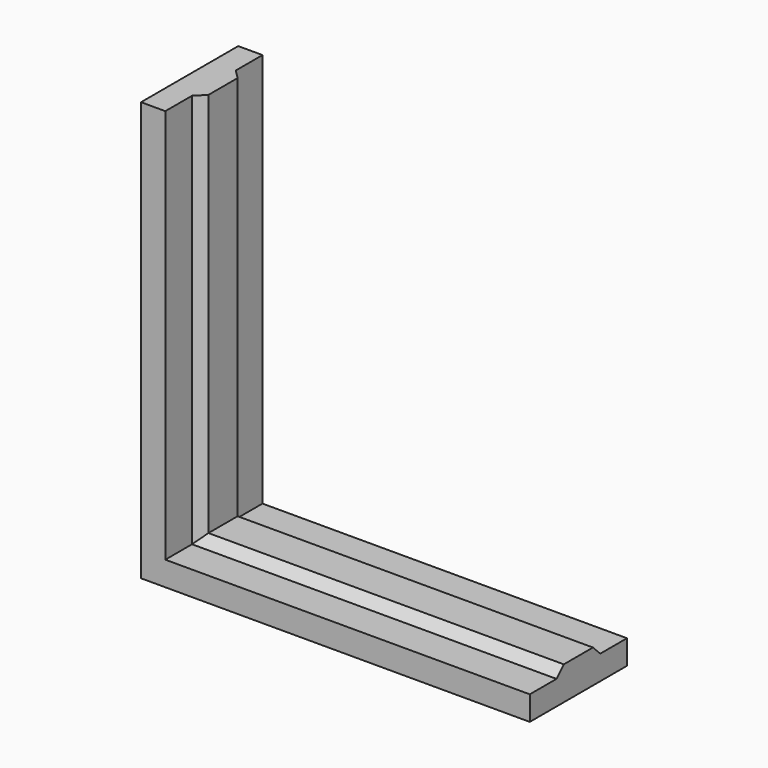
from build123d import *

# Parameters (mm, degrees)
F0_W     = 60
F0_H     = 20
F0_R     = 2.5
F1_DEPTH = 4
F2_W     = 20
F2_H     = 69
F2_R     = 2.5
F3_DEPTH = 4
F5_DEPTH = 60
F7_DEPTH = 65


with BuildPart() as f1:
    # F0 (on Top) → F1 (new body)
    with BuildSketch(Plane.XY):
        with Locations((30, 10)):
            Rectangle(F0_W, F0_H)
        with Locations((10, 10)):
            Circle(F0_R, mode=Mode.SUBTRACT)
        with Locations((30, 10)):
            Circle(F0_R, mode=Mode.SUBTRACT)
        with Locations((50, 10)):
            Circle(F0_R, mode=Mode.SUBTRACT)
    extrude(amount=F1_DEPTH)

    # F2 (on Right) → F3 (join)
    with BuildSketch(Plane.YZ):
        with Locations((10, 34.5)):
            Rectangle(F2_W, F2_H)
        with Locations((10, 14)):
            Circle(F2_R, mode=Mode.SUBTRACT)
        with Locations((10, 34)):
            Circle(F2_R, mode=Mode.SUBTRACT)
        with Locations((10, 54)):
            Circle(F2_R, mode=Mode.SUBTRACT)
    extrude(amount=-F3_DEPTH)

    # F4 (on face) → F5 (join, through all)
    with BuildSketch(Plane.YZ.offset(60)):
        Polygon((7, 5.5), (5.5, 4), (14.5, 4), (13, 5.5), align=None)
    extrude(amount=-F5_DEPTH)

    # F6 (on face) → F7 (join, through all)
    with BuildSketch(Plane.XY.offset(69)):
        Polygon((1.5, 13), (0, 14.5), (0, 5.5), (1.5, 7), align=None)
    extrude(amount=-F7_DEPTH)


solid = f1.part
